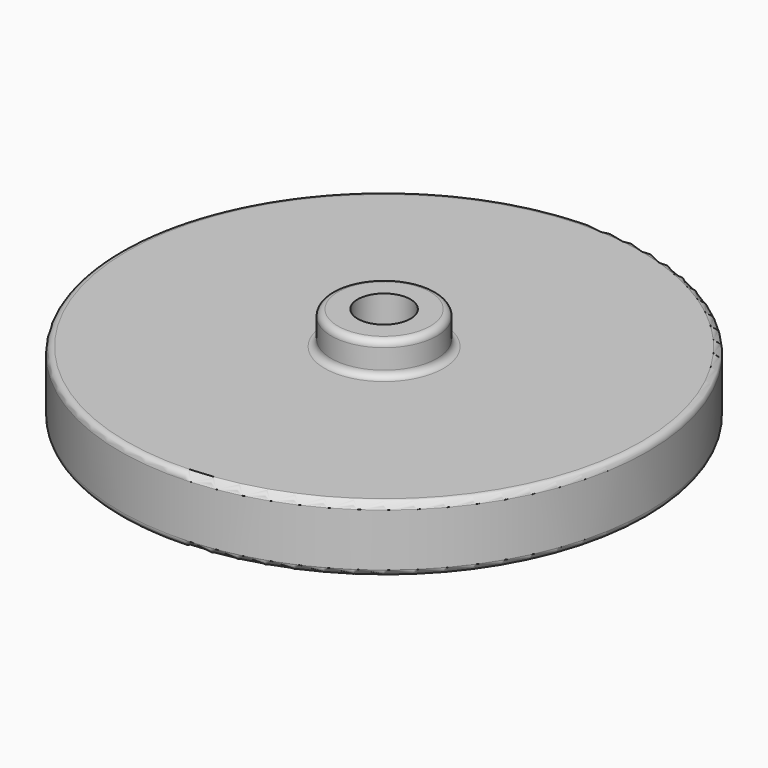
from build123d import *

# Parameters (mm, degrees)
F0_R     = 100
F0_R_2   = 10
F1_DEPTH = 25
F2_R     = 20
F2_R_2   = 10
F3_DEPTH = 12.5
F4_R     = 20
F4_R_2   = 10
F5_DEPTH = 12.5
F6_R     = 2.5


with BuildPart() as f1:
    # F0 (on Top) → F1 (new body)
    with BuildSketch(Plane.XY):
        Circle(F0_R)
        Circle(F0_R_2, mode=Mode.SUBTRACT)
    extrude(amount=F1_DEPTH)

    # F2 (on face) → F3 (join)
    with BuildSketch(Plane(origin=(0, 0, 0), x_dir=(1, 0, 0), z_dir=(0, 0, -1))):
        Circle(F2_R)
        Circle(F2_R_2, mode=Mode.SUBTRACT)
    extrude(amount=F3_DEPTH)

    # F4 (on face) → F5 (join)
    with BuildSketch(Plane.XY.offset(25)):
        Circle(F4_R)
        Circle(F4_R_2, mode=Mode.SUBTRACT)
    extrude(amount=F5_DEPTH)

    # F6
    f6_edges = [f1.edges().sort_by_distance(p)[0] for p in [
        (-100, 0, 0),
        (-20, 0, 0),
        (-100, 0, 25),
        (-20, 0, 25),
        (-20, 0, 37.5),
        (-20, 0, -12.5),
    ]]
    fillet(f6_edges, radius=F6_R)


solid = f1.part
